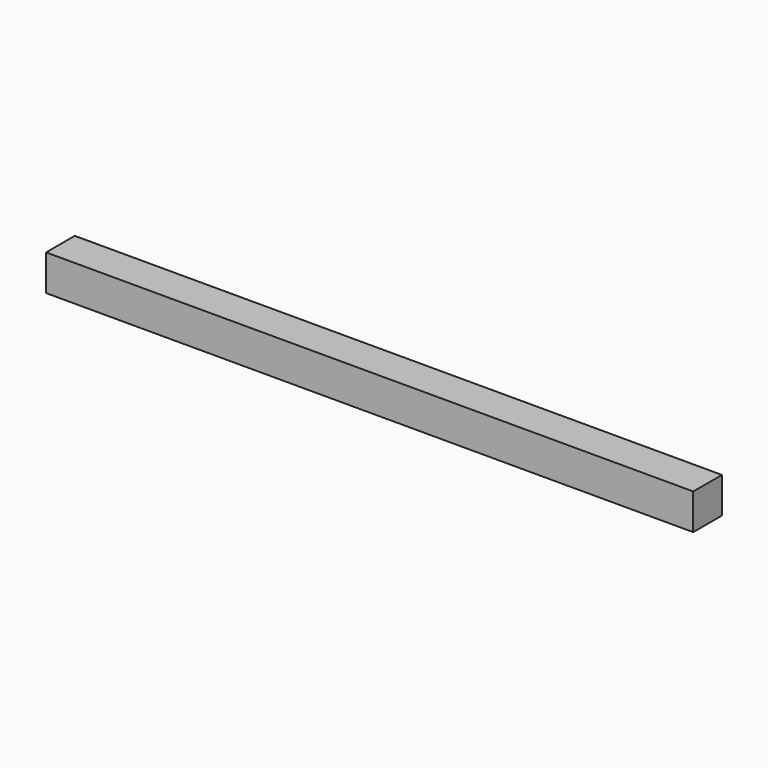
from build123d import *

# Parameters (mm, degrees)
SKETCH_W  = 18
SKETCH_H  = 18
PAD_DEPTH = 325


with BuildPart() as part:
    # Sketch → Pad (new body)
    with BuildSketch(Plane.YZ):
        with Locations((9, 9)):
            Rectangle(SKETCH_W, SKETCH_H)
    extrude(amount=PAD_DEPTH)


solid = part.part
